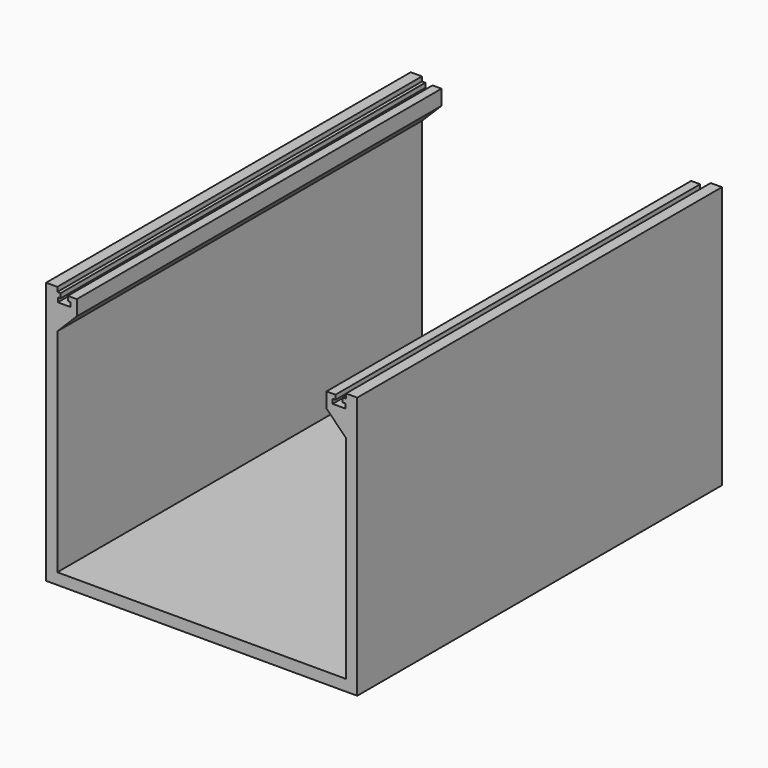
from build123d import *

# Parameters (mm, degrees)
PAD_DEPTH = 203.2


with BuildPart() as part:
    # Sketch → Pad (new body)
    with BuildSketch(Plane.XZ):
        Polygon((-69.35, 0), (-69.35, 117), (-64.35, 117), (-64.35, 115), (-62.85, 115), (-62.85, 113), (-64.1, 113), (-64.1, 111), (-58.4, 111), (-58.4, 113), (-59.65, 113), (-59.65, 115), (-55.65, 115), (-55.65, 108.25), (-64.35, 99.55), (-64.35, 5), (0, 5), (0, 0), align=None)
    pad = extrude(amount=PAD_DEPTH)

    # Mirrored: Pad across Sketch V_Axis
    add(pad.mirror(Plane(origin=(0, 0, 0), x_dir=(0, -1, 0), z_dir=(1, 0, 0))))


solid = part.part
